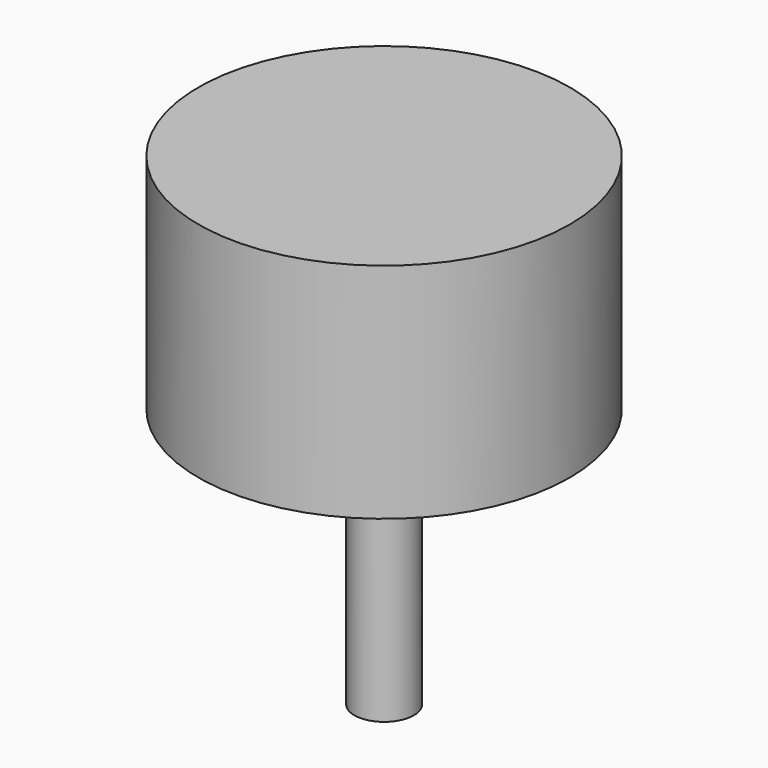
from build123d import *

# Parameters (mm, degrees)
F0_R     = 2
F1_DEPTH = 25
F2_R     = 12.5
F3_DEPTH = 7.5


with BuildPart() as f1:
    # F0 (on Top) → F1 (new body)
    with BuildSketch(Plane.XY):
        with Locations((-42.348489, 7.082166)):
            Circle(F0_R)
    extrude(amount=F1_DEPTH)

    # F2 (on face) → F3 (join, symmetric)
    with BuildSketch(Plane.XY.offset(25)):
        with Locations((-42.348489, 7.082166)):
            Circle(F2_R)
    extrude(amount=F3_DEPTH, both=True)


solid = f1.part
